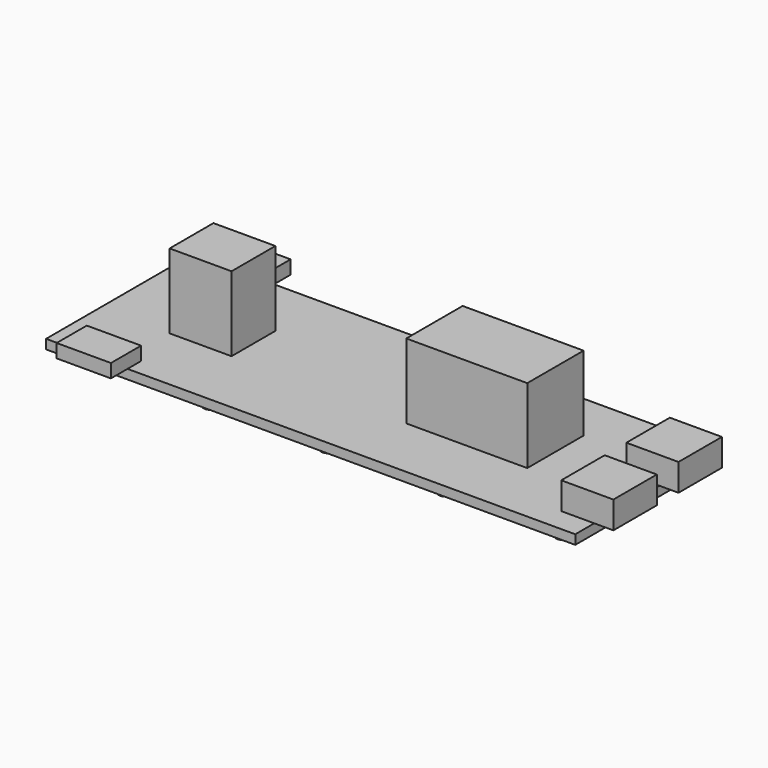
from build123d import *

# Parameters (mm, degrees)
SKETCH_W      = 99.07
SKETCH_H      = 34.29
PAD_DEPTH     = 1.75
SKETCH001_R   = 1.365796
PAD001_DEPTH  = 2
SKETCH013_W   = 11.589402
SKETCH013_H   = 10.258059
SKETCH013_W_2 = 22.646941
SKETCH013_H_2 = 13.185007
PAD010_DEPTH  = 14
SKETCH016_W   = 9.758744
SKETCH016_H   = 10.16
PAD013_DEPTH  = 5.08
SKETCH017_W   = 10.16
SKETCH017_H   = 7.052728
PAD014_DEPTH  = 2.54


with BuildPart() as part:
    # Sketch → Pad (new body)
    with BuildSketch(Plane.XY):
        Rectangle(SKETCH_W, SKETCH_H)
    extrude(amount=PAD_DEPTH)

    # Sketch001 → Pad001 (join)
    with BuildSketch(Plane.XY):
        with Locations((-44.000565, 12.998089)):
            Circle(SKETCH001_R)
        with Locations((-22.000565, 12.999044)):
            Circle(SKETCH001_R)
        with Locations((-0.000565, 13)):
            Circle(SKETCH001_R)
        with Locations((21.999435, 13.000956)):
            Circle(SKETCH001_R)
        with Locations((43.999435, 13.001911)):
            Circle(SKETCH001_R)
        with Locations((-44, -0.001911)):
            Circle(SKETCH001_R)
        with Locations((-22, -0.000956)):
            Circle(SKETCH001_R)
        Circle(SKETCH001_R)
        with Locations((22, 0.000956)):
            Circle(SKETCH001_R)
        with Locations((44, 0.001911)):
            Circle(SKETCH001_R)
        with Locations((-43.999435, -13.001911)):
            Circle(SKETCH001_R)
        with Locations((-21.999435, -13.000956)):
            Circle(SKETCH001_R)
        with Locations((0.000565, -13)):
            Circle(SKETCH001_R)
        with Locations((22.000565, -12.999044)):
            Circle(SKETCH001_R)
        with Locations((44.000565, -12.998089)):
            Circle(SKETCH001_R)
    extrude(amount=-PAD001_DEPTH)

    # Sketch013 → Pad010 (join)
    with BuildSketch(Plane.XY.offset(1.75)):
        with Locations((-30.713279, 0.610479)):
            Rectangle(SKETCH013_W, SKETCH013_H)
        with Locations((19.642979, 1.424736)):
            Rectangle(SKETCH013_W_2, SKETCH013_H_2)
    extrude(amount=PAD010_DEPTH)

    # Sketch016 → Pad013 (join)
    with BuildSketch(Plane.XY.offset(1.75)):
        with Locations((48.238372, 7.62)):
            Rectangle(SKETCH016_W, SKETCH016_H)
        with Locations((48.238372, -7.62)):
            Rectangle(SKETCH016_W, SKETCH016_H)
    extrude(amount=PAD013_DEPTH)

    # Sketch017 → Pad014 (join)
    with BuildSketch(Plane.XY.offset(1.75)):
        with Locations((-39.372, 17.497364)):
            Rectangle(SKETCH017_W, SKETCH017_H)
        with Locations((-39.372, -17.497364)):
            Rectangle(SKETCH017_W, SKETCH017_H)
    extrude(amount=PAD014_DEPTH)


solid = part.part
